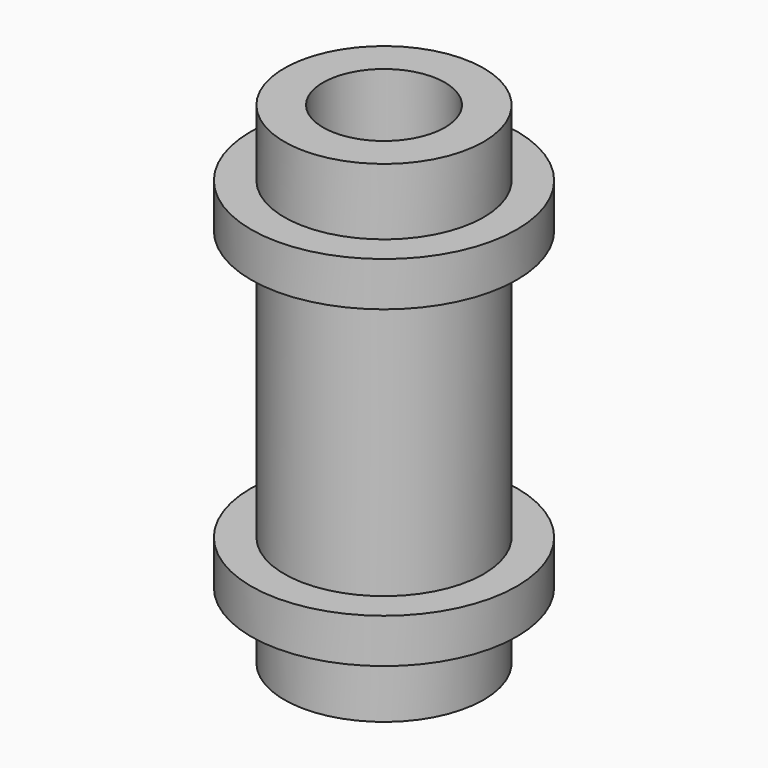
from build123d import *

# Parameters (mm, degrees)
F2_R     = 19.05
F3_DEPTH = 76.2
F4_R     = 34.925
F5_DEPTH = 76.2


with BuildPart() as f1:
    # F0 (on Front) → F1 (revolve)
    with BuildSketch(Plane.XZ):
        Polygon((0, 180.086), (0, 0), (76.2, 0), (76.2, 12.7), (57.15, 12.7), (57.15, 167.386), (76.2, 167.386), (76.2, 180.086), align=None)
        Polygon((76.2, 0), (0, 0), (0, -50.8), (57.15, -50.8), (57.15, -12.7), (76.2, -12.7), align=None)
        Polygon((0, 230.886), (0, 180.086), (76.2, 180.086), (76.2, 192.786), (57.15, 192.786), (57.15, 230.886), align=None)
    revolve(axis=Axis((0, 0, 90.043), (0, 0, 1)))

    # F2 (on face) → F3 (cut)
    with BuildSketch(Plane(origin=(0, 0, -50.8), x_dir=(1, 0, 0), z_dir=(0, 0, -1))):
        Circle(F2_R)
    extrude(amount=-F3_DEPTH, mode=Mode.SUBTRACT)

    # F4 (on face) → F5 (cut)
    with BuildSketch(Plane.XY.offset(230.886)):
        Circle(F4_R)
    extrude(amount=-F5_DEPTH, mode=Mode.SUBTRACT)


solid = f1.part
